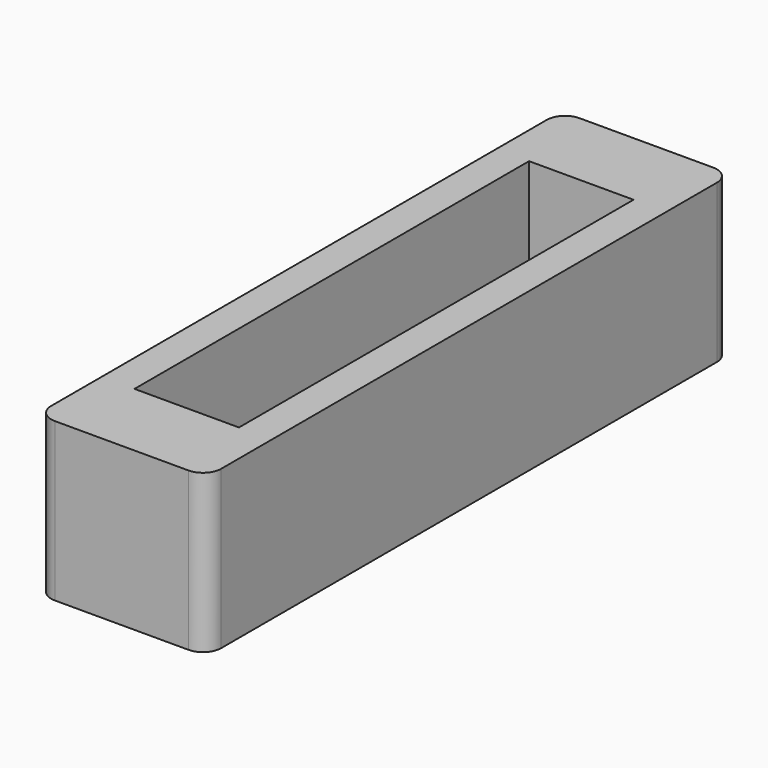
from build123d import *

# Parameters (mm, degrees)
F0_W     = 7
F0_H     = 7
F1_DEPTH = 13.5
F2_W     = 4.3
F2_H     = 20.3
F3_DEPTH = 4.3
F4_DEPTH = 0.5
F5_R     = 0.75


with BuildPart() as f1:
    # F0 (on Front) → F1 (new body, symmetric)
    with BuildSketch(Plane.XZ):
        Rectangle(F0_W, F0_H)
    extrude(amount=F1_DEPTH, both=True)

    # F2 (on face) → F3 (cut)
    with BuildSketch(Plane.XY.offset(3.5)):
        Rectangle(F2_W, F2_H)
    extrude(amount=-F3_DEPTH, mode=Mode.SUBTRACT)

    # F4 (cut): a face of the model
    f4_faces = [f1.faces().sort_by_distance(p)[0] for p in [
        (0, 0, -3.5),
    ]]
    extrude(f4_faces, amount=-F4_DEPTH, mode=Mode.SUBTRACT)

    # F5
    f5_edges = [f1.edges().sort_by_distance(p)[0] for p in [
        (-3.5, 13.5, 0.25),
        (3.5, 13.5, 0.25),
        (3.5, -13.5, 0.25),
        (-3.5, -13.5, 0.25),
    ]]
    fillet(f5_edges, radius=F5_R)


solid = f1.part
